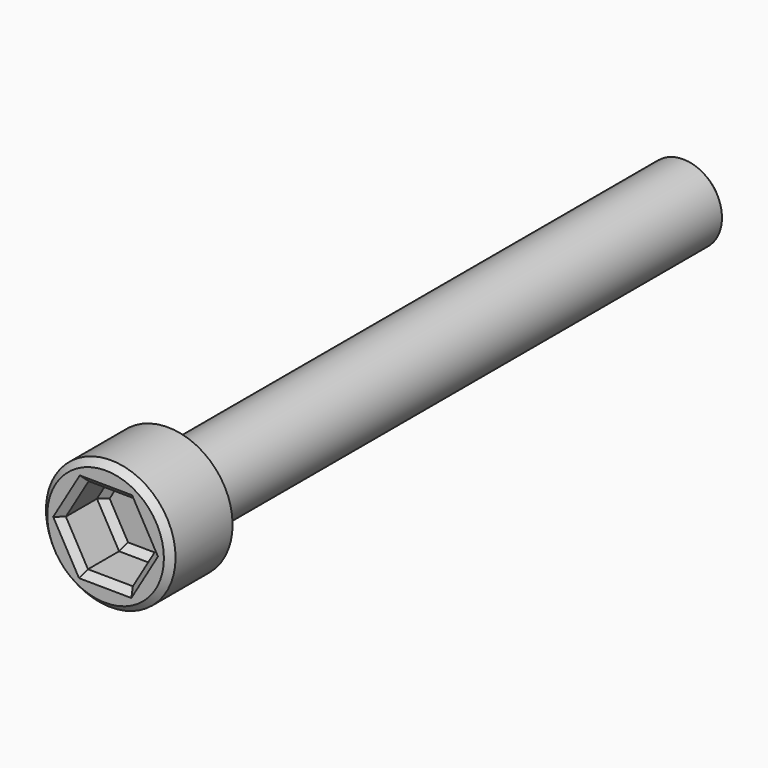
from build123d import *

# Parameters (mm, degrees)
F0_R     = 5
F1_DEPTH = 6
F3_DEPTH = 4
F6_SIZE  = 0.5
F7_R     = 3
F4_DEPTH = 50
F5_SIZE  = 0.3


with BuildPart() as f1:
    # F0 (on Front) → F1 (new body)
    with BuildSketch(Plane.XZ):
        Circle(F0_R)
    extrude(amount=F1_DEPTH)

    # F2 (on face) → F3 (cut)
    with BuildSketch(Plane.XZ.offset(6)):
        Polygon((3.4639698148, -0.0302179133), (1.7581543879, 2.9847769009), (-1.7058154268, 3.0149948142), (-3.4639698148, 0.0302179133), (-1.7581543879, -2.9847769009), (1.7058154268, -3.0149948142), align=None)
    extrude(amount=-F3_DEPTH, mode=Mode.SUBTRACT)

    # F6
    f6_edges = [f1.edges().sort_by_distance(p)[0] for p in [
        (-5, -6, 0),
        (2.584893, -2, -1.522606),
        (2.611062, -2, 1.477279),
        (0.026169, -2, 2.999886),
        (-2.584893, -2, 1.522606),
        (-2.611062, -2, -1.477279),
        (-0.026169, -2, -2.999886),
        (-2.584893, -6, 1.522606),
        (-2.611062, -6, -1.477279),
        (0.026169, -6, 2.999886),
        (2.584893, -6, -1.522606),
        (2.611062, -6, 1.477279),
        (-0.026169, -6, -2.999886),
    ]]
    chamfer(f6_edges, length=F6_SIZE)

    # F7 (on face) → F4 (join)
    with BuildSketch(Plane(origin=(0, 0, 0), x_dir=(-1, 0, 0), z_dir=(0, 1, 0))):
        Circle(F7_R)
    extrude(amount=F4_DEPTH)

    # F5
    f5_edges = [f1.edges().sort_by_distance(p)[0] for p in [
        (3, 50, 0),
    ]]
    chamfer(f5_edges, length=F5_SIZE)


solid = f1.part
